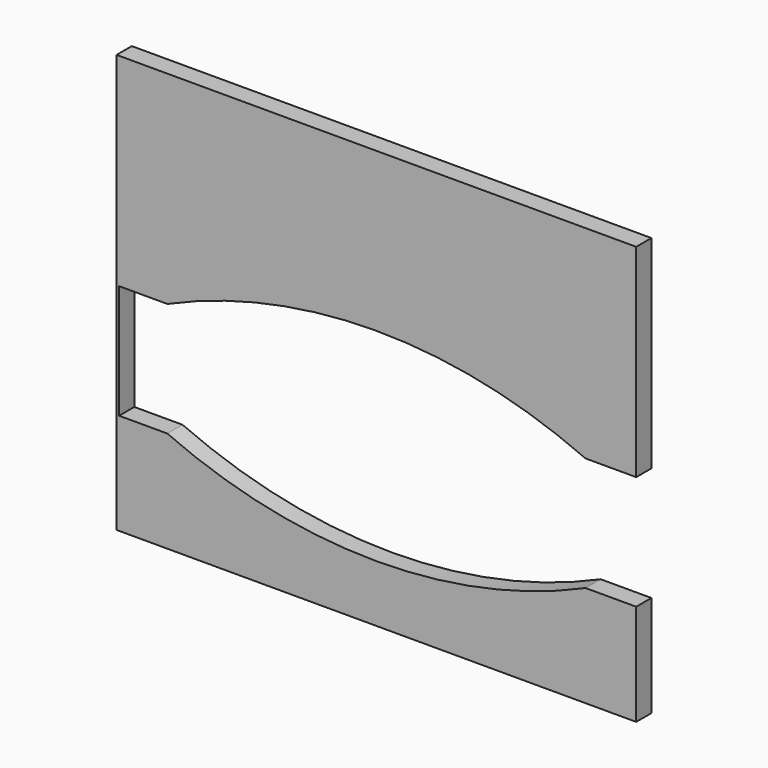
from build123d import *

# Parameters (mm, degrees)
F0_W     = 520.7
F0_H     = 419.1
F1_DEPTH = 19.05
F3_W     = 520.7
F3_H     = 114.3
F4_DEPTH = 25.4
F6_DEPTH = 25.4
F7_W     = 2.54
F7_H     = 243.400686
F8_DEPTH = 19.05


with BuildPart() as f1:
    # F0 (on Front) → F1 (new body)
    with BuildSketch(Plane.XZ):
        Rectangle(F0_W, F0_H)
    extrude(amount=-F1_DEPTH)

    # F3 (on face) → F4 (cut)
    with BuildSketch(Plane.XZ):
        with Locations((0, -50.8)):
            Rectangle(F3_W, F3_H)
    extrude(amount=-F4_DEPTH, mode=Mode.SUBTRACT)

    # F5 (on face) → F6 (cut)
    with BuildSketch(Plane.XZ):
        with BuildLine():
            ThreePointArc((-307.509387, -50.8), (0, -152.4), (307.509387, -50.8))
            ThreePointArc((307.509387, -50.8), (0, 50.8), (-307.509387, -50.8))
        make_face()
    extrude(amount=-F6_DEPTH, mode=Mode.SUBTRACT)

    # F7 (on face) → F8 (join, through all)
    with BuildSketch(Plane.XZ):
        with Locations((-259.08, -28.190974)):
            Rectangle(F7_W, F7_H)
    extrude(amount=-F8_DEPTH)


solid = f1.part
